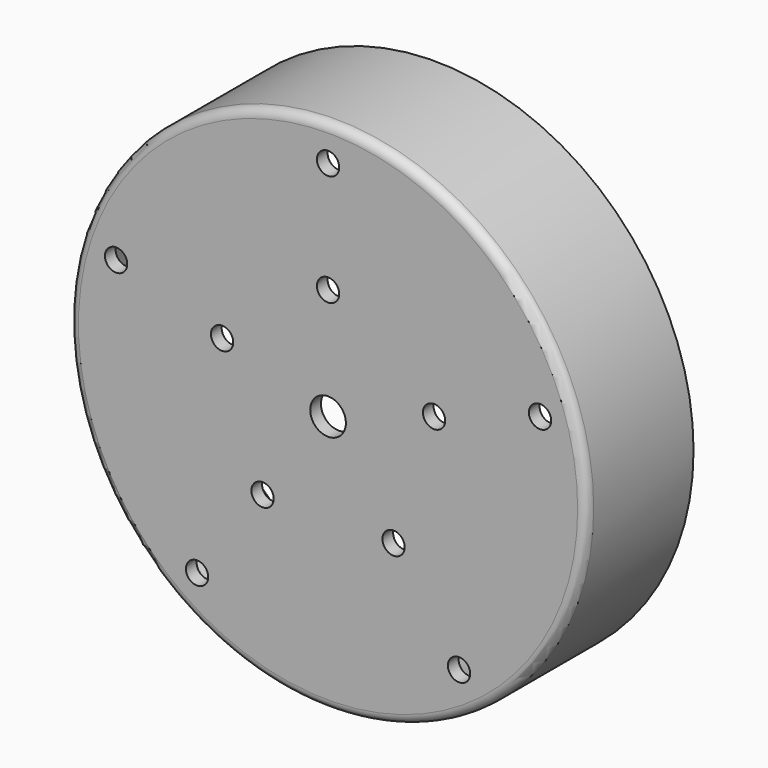
from build123d import *

# Parameters (mm, degrees)
F0_R     = 58
F1_DEPTH = 30
F2_T     = -3
F3_R     = 2
F5_D     = 8
F7_D     = 5


with BuildPart() as f1:
    # F0 (on Front) → F1 (new body)
    with BuildSketch(Plane.XZ):
        Circle(F0_R)
    extrude(amount=F1_DEPTH)

    # F2
    f2_openings = [f1.faces().sort_by_distance(p)[0] for p in [
        (0, 0, 0),
    ]]
    offset(amount=F2_T, openings=f2_openings)

    # F3
    f3_edges = [f1.edges().sort_by_distance(p)[0] for p in [
        (-58, -30, 0),
    ]]
    fillet(f3_edges, radius=F3_R)

    # F5 (through all)
    with Locations(Plane.XZ.offset(30)):
        with Locations((0, 0)):
            Hole(F5_D / 2)

    # F7 (through all)
    with Locations(Plane.XZ.offset(30)):
        with Locations((0, 25), (0, 50), (-23.776413, 7.725425), (-47.552826, 15.45085), (-29.389263, -40.45085), (-14.694631, -20.225425), (14.694631, -20.225425), (29.389263, -40.45085), (23.776413, 7.725425), (47.552826, 15.45085)):
            Hole(F7_D / 2)


solid = f1.part
